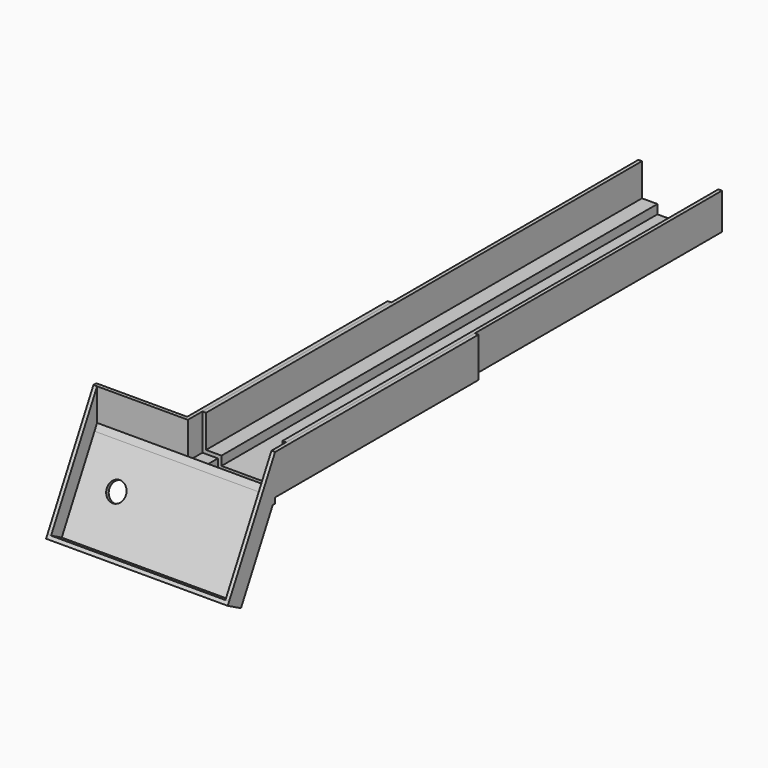
from build123d import *

# Parameters (mm, degrees)
F1_DEPTH       = 300
F2_DEPTH       = 10
F2_DEPTH_BACK  = 130
F4_DEPTH       = 50
F4_DEPTH_BACK  = 50
F5_START       = -48
F5_DEPTH       = 2
F6_START       = -100
F6_DEPTH       = 30
F8_START       = 48
F8_DEPTH       = 2
F3_W           = 2
F3_H           = 3
F9_DEPTH       = 50
F10_DEPTH      = 50
F10_DEPTH_BACK = 50
F7_R           = 5.25
F11_DEPTH      = 25


with BuildPart() as f1:
    # F0 (on Front) → F1 (new body)
    with BuildSketch(Plane.XZ):
        Polygon((-43.7134447098, 45.0421461165), (-45.7134447098, 45.0421461165), (-45.7134447098, 25.0421461165), (-37.2134447098, 25.0421461165), (-37.2134447098, 20.0421461165), (-8.2134447098, 20.0421461165), (-8.2134447098, 25.0421461165), (0.2865552902, 25.0421461165), (0.2865552902, 45.0421461165), (-1.7134447098, 45.0421461165), (-1.7134447098, 27.0421461165), (-10.2134447098, 27.0421461165), (-10.2134447098, 22.0421461165), (-35.2134447098, 22.0421461165), (-35.2134447098, 27.0421461165), (-43.7134447098, 27.0421461165), align=None)
    extrude(amount=-F1_DEPTH)


with BuildPart() as f2:
    # F0 (on Front) → F2 (new body, two sides)
    with BuildSketch(Plane.XZ) as f2_sk:
        Polygon((-45.7134447098, 25.0421461165), (-45.7134447098, 45.0421461165), (-47.7134447098, 45.0421461165), (-47.7134447098, 23.0421461165), (-39.2134447098, 23.0421461165), (-39.2134447098, 20.0421461165), (-37.2134447098, 20.0421461165), (-37.2134447098, 25.0421461165), align=None)
    extrude(amount=F2_DEPTH)
    extrude(f2_sk.sketch, amount=-F2_DEPTH_BACK)



with BuildPart() as f2b:
    # F0 (on Front) → F2, piece 2 (new body, two sides)
    with BuildSketch(Plane.XZ) as f2_2_sk:
        Polygon((-8.2134447098, 25.0421461165), (-8.2134447098, 20.0421461165), (-6.2134447098, 20.0421461165), (-6.2134447098, 23.0421461165), (2.2865552902, 23.0421461165), (2.2865552902, 45.0421461165), (0.2865552902, 45.0421461165), (0.2865552902, 25.0421461165), align=None)
    extrude(amount=F2_DEPTH)
    extrude(f2_2_sk.sketch, amount=-F2_DEPTH_BACK)


with BuildPart() as f2_1:
    add(f2.part)

    add(f2b.part)  # F4 merges F2b
    # F3 (on face) → F4 (join, two sides)
    with BuildSketch(Plane(origin=(-47.7134447098, 0, 0), x_dir=(0, -1, 0), z_dir=(-1, 0, 0))) as f4_sk:
        Polygon((11.7658951857, 23.9810892421), (10, 23.0421461165), (11.595128295, 20.0421461165), (32.5346350137, -19.3393383407), (34.3005301994, -18.4003952152), align=None)
        Polygon((10, 27.3022550529), (10, 23.0421461165), (11.7658951857, 23.9810892421), align=None)
        Polygon((11.595128295, 20.0421461165), (10, 23.0421461165), (10, 20.0421461165), align=None)
    extrude(amount=-F4_DEPTH)
    extrude(f4_sk.sketch, amount=F4_DEPTH_BACK)

    # F3 (on face) → F5 (join)
    with BuildSketch(Plane(origin=(-47.7134447098, 0, 0), x_dir=(0, -1, 0), z_dir=(-1, 0, 0)).offset(F5_START)):
        Polygon((19.1194132981, 27.8910241783), (11.7658951857, 23.9810892421), (34.3005301994, -18.4003952152), (41.6540483118, -14.4904602789), align=None)
        Polygon((10, 27.3022550529), (11.7658951857, 23.9810892421), (19.1194132981, 27.8910241783), (10, 45.0421461165), align=None)
    extrude(amount=-F5_DEPTH)

    # F0 (on Front) → F6 (join)
    with BuildSketch(Plane.XZ.offset(F6_START)):
        Polygon((-8.2134447098, 20.0421461165), (-37.2134447098, 20.0421461165), (-39.2134447098, 20.0421461165), (-39.2134447098, 18.0421461165), (-6.2134447098, 18.0421461165), (-6.2134447098, 20.0421461165), align=None)
    extrude(amount=-F6_DEPTH)

    # F3 (on face) → F8 (join)
    with BuildSketch(Plane(origin=(-47.7134447098, 0, 0), x_dir=(0, -1, 0), z_dir=(-1, 0, 0)).offset(F8_START)):
        Polygon((19.1194132981, 27.8910241783), (11.7658951857, 23.9810892421), (34.3005301994, -18.4003952152), (41.6540483118, -14.4904602789), align=None)
        Polygon((10, 27.3022550529), (11.7658951857, 23.9810892421), (19.1194132981, 27.8910241783), (10, 45.0421461165), align=None)
    extrude(amount=F8_DEPTH)

    # F3 (on face) → F9 (join)
    with BuildSketch(Plane(origin=(-47.7134447098, 0, 0), x_dir=(0, -1, 0), z_dir=(-1, 0, 0))):
        Polygon((8, 23.0421461165), (10, 23.0421461165), (10, 27.3022550529), (10, 45.0421461165), (8, 45.0421461165), align=None)
        with Locations((9, 21.5421461165)):
            Rectangle(F3_W, F3_H)
    extrude(amount=F9_DEPTH)

    # F3 (on face) → F10 (join, two sides)
    with BuildSketch(Plane(origin=(-47.7134447098, 0, 0), x_dir=(0, -1, 0), z_dir=(-1, 0, 0))) as f10_sk:
        Polygon((34.3005301994, -18.4003952152), (32.5346350137, -19.3393383407), (33.4735781393, -21.1052335265), (35.239473325, -20.1662904009), align=None)
        Polygon((41.6540483118, -14.4904602789), (34.3005301994, -18.4003952152), (35.239473325, -20.1662904009), (42.5929914374, -16.2563554646), align=None)
    extrude(amount=F10_DEPTH)
    extrude(f10_sk.sketch, amount=-F10_DEPTH_BACK)

    # F7 (on face) → F11 (cut)
    with BuildSketch(Plane(origin=(0, -19.1132621445, 10.1627017521), x_dir=(1, 0, 0), z_dir=(0, -0.8829475929, 0.4694715628))):
        with Locations((-75.7134447098, -5.5882552493)):
            Circle(F7_R)
    extrude(amount=-F11_DEPTH, mode=Mode.SUBTRACT)


solid = Compound([f1.part, f2_1.part])
